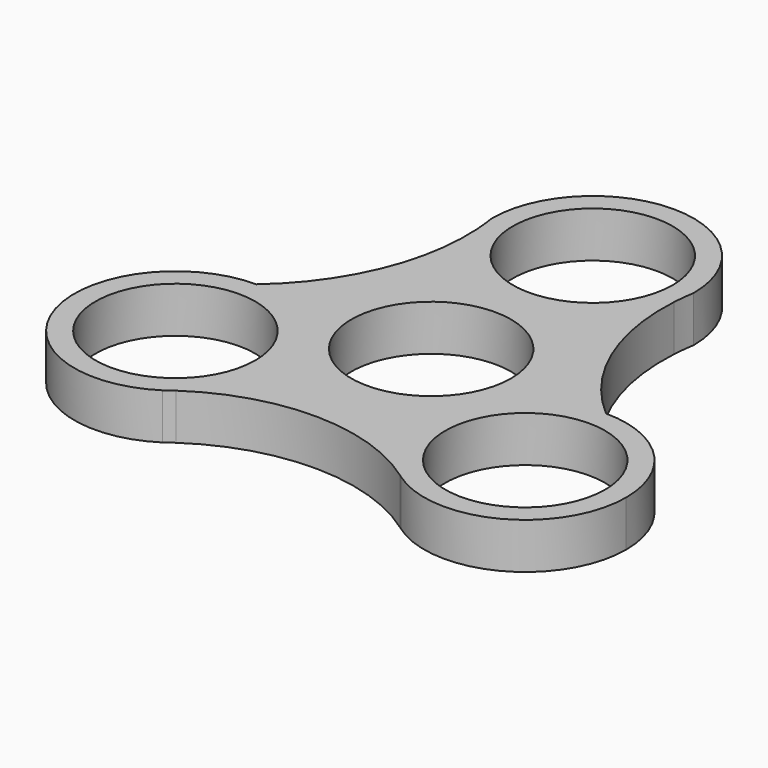
from build123d import *

# Parameters (mm, degrees)
F0_R     = 11.049
F1_DEPTH = 6.35


with BuildPart() as f1:
    # F0 (on Top) → F1 (new body)
    with BuildSketch(Plane.XY):
        with BuildLine():
            ThreePointArc((24.1897099326, -0.0073616562), (15.9969747128, 11.215659094), (13.6372355628, 24.909042032))
            ThreePointArc((13.6372355628, 24.909042032), (-0.0068169573, 13.9700016632), (-13.6401871082, 24.9223526296))
            ThreePointArc((-13.6401871082, 24.9223526296), (-16.005456745, 11.2251220811), (-24.2066450876, 0.00241586))
            ThreePointArc((-24.2066450876, 0.00241586), (-14.3283633544, -4.0893024068), (-10.2366450876, -13.96758414))
            ThreePointArc((-10.2366450876, -13.96758414), (-11.6035855434, -19.9945062505), (-15.4369013691, -24.8419804502))
            ThreePointArc((-15.4369013691, -24.8419804502), (0.2894413219, -20.0870403352), (15.8966507841, -25.2195175864))
            ThreePointArc((15.8966507841, -25.2195175864), (10.9191820919, -9.6122739335), (24.1897099326, -0.0073616562))
        make_face()
        Circle(F0_R, mode=Mode.SUBTRACT)
        with BuildLine():
            ThreePointArc((-10.2366450876, -13.96758414), (-14.3283633544, -4.0893024068), (-24.2066450876, 0.00241586))
            ThreePointArc((-24.2066450876, 0.00241586), (-37.6059680769, -17.9196776899), (-16.6253454512, -25.7015006142))
            ThreePointArc((-16.6253454512, -25.7015006142), (-16.0368970517, -25.263757415), (-15.4369013691, -24.8419804502))
            ThreePointArc((-15.4369013691, -24.8419804502), (-11.6035855434, -19.9945062505), (-10.2366450876, -13.96758414))
        make_face()
        with Locations((-24.2066450876, -13.96758414)):
            Circle(F0_R, mode=Mode.SUBTRACT)
        with BuildLine():
            ThreePointArc((38.1597099326, -13.9773616562), (34.0679916658, -4.0990799231), (24.1897099326, -0.0073616562))
            ThreePointArc((24.1897099326, -0.0073616562), (10.9191820919, -9.6122739335), (15.8966507841, -25.2195175864))
            ThreePointArc((15.8966507841, -25.2195175864), (15.9879672376, -25.285462153), (16.0790108119, -25.3517829502))
            ThreePointArc((16.0790108119, -25.3517829502), (30.5871482201, -26.396447104), (38.1597099326, -13.9773616562))
        make_face()
        with Locations((24.1897099326, -13.9773616562)):
            Circle(F0_R, mode=Mode.SUBTRACT)
        with BuildLine():
            ThreePointArc((13.6372355628, 24.909042032), (13.7656925258, 26.4286847743), (13.97, 27.94))
            ThreePointArc((13.97, 27.94), (0, 41.91), (-13.97, 27.94))
            ThreePointArc((-13.97, 27.94), (-13.7675028866, 26.4352847759), (-13.6401871082, 24.9223526296))
            ThreePointArc((-13.6401871082, 24.9223526296), (-0.0068169573, 13.9700016632), (13.6372355628, 24.909042032))
        make_face()
        with Locations((0, 27.94)):
            Circle(F0_R, mode=Mode.SUBTRACT)
    extrude(amount=F1_DEPTH)


solid = f1.part
